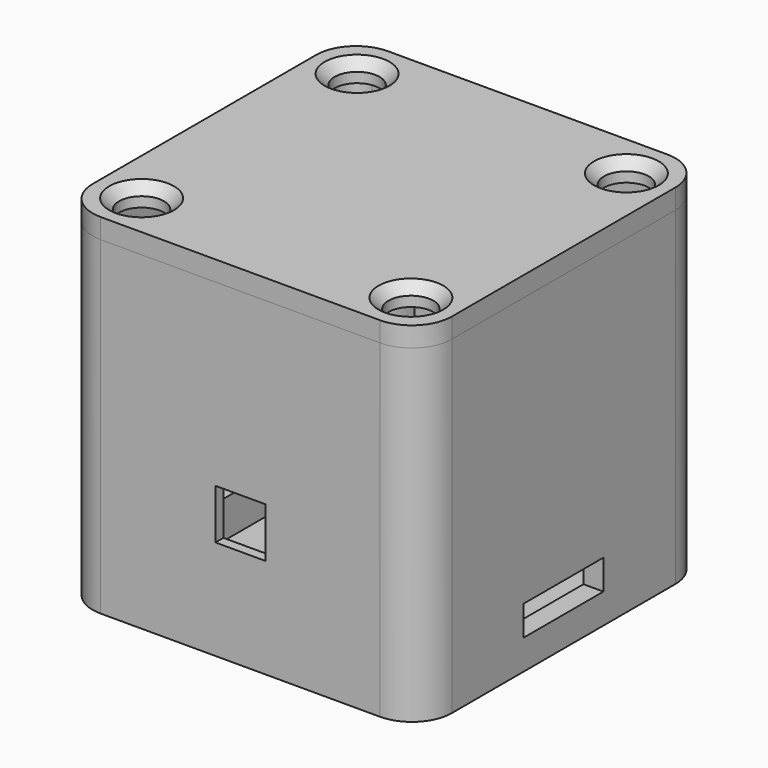
from build123d import *

# Parameters (mm, degrees)
PAD_DEPTH                     = 33
POCKET_DEPTH                  = 31.001
SKETCH002_R                   = 1.25
PAD001_DEPTH                  = 29
SKETCH002_MIRRORED_2_R        = 1.25
PAD001_MIRRORED_2_DEPTH       = 29
SKETCH007_R                   = 3.75
POCKET003_DEPTH               = 5
SKETCH008_W                   = 19.150568
SKETCH008_H                   = 32
PAD004_DEPTH                  = 10
POCKET005_DEPTH               = 18
POCKET006_DEPTH               = 31.001
SKETCH011_W                   = 8.5
SKETCH011_H                   = 8.5
POCKET007_DEPTH               = 17
SKETCH012_W                   = 5
SKETCH012_H                   = 5
POCKET008_DEPTH               = 20
SKETCH016_W                   = 10
SKETCH016_H                   = 3
POCKET009_DEPTH               = 18.001
PAD002_DEPTH                  = 2
PAD003_DEPTH                  = 1.7
SKETCH005_R                   = 2.25
POCKET001_DEPTH               = 133.092919
SKETCH005_MIRRORED002_2_R     = 2.25
POCKET001_MIRRORED002_2_DEPTH = 133.092919
CHAMFER_SIZE                  = 1
SKETCH006_W                   = 56
SKETCH006_H                   = 44
POCKET002_DEPTH               = 3


with BuildPart() as box:
    # Sketch → Pad (new body)
    with BuildSketch(Plane.XY.offset(-2)):
        with BuildLine():
            ThreePointArc((-14, 18), (-16.828427, 16.828427), (-18, 14))
            Line((-18, -14), (-18, 14))
            ThreePointArc((-18, -14), (-16.828427, -16.828427), (-14, -18))
            Line((14, -18), (-14, -18))
            ThreePointArc((14, -18), (16.828427, -16.828427), (18, -14))
            Line((18, 14), (18, -14))
            ThreePointArc((18, 14), (16.828427, 16.828427), (14, 18))
            Line((-14, 18), (14, 18))
        make_face()
    extrude(amount=PAD_DEPTH)

    # Sketch001 → Pocket (cut, through all)
    with BuildSketch(Plane.XY):
        with BuildLine():
            ThreePointArc((-14, 16), (-15.414214, 15.414214), (-16, 14))
            Line((-16, -14), (-16, 14))
            ThreePointArc((-16, -14), (-15.414214, -15.414214), (-14, -16))
            Line((14, -16), (-14, -16))
            ThreePointArc((14, -16), (15.414214, -15.414214), (16, -14))
            Line((16, 14), (16, -14))
            ThreePointArc((16, 14), (15.414214, 15.414214), (14, 16))
            Line((-14, 16), (14, 16))
        make_face()
    extrude(amount=POCKET_DEPTH, mode=Mode.SUBTRACT)

    # Sketch002 → Pad001 (join)
    with BuildSketch(Plane.XY):
        with BuildLine():
            Line((-16, 16), (-9.75, 16))
            ThreePointArc((-16, 9.75), (-11.580583, 11.580583), (-9.75, 16))
            Line((-16, 16), (-16, 9.75))
        make_face()
        with Locations((-13.5, 13.5)):
            Circle(SKETCH002_R, mode=Mode.SUBTRACT)
    pad001 = extrude(amount=PAD001_DEPTH)

    # Sketch002 Mirrored 2 → Pad001 Mirrored 2 (add)
    with BuildSketch(Plane(origin=(0, 0, 0), x_dir=(-1, 0, 0), z_dir=(0, 0, -1))):
        with BuildLine():
            Line((-16, 16), (-9.75, 16))
            ThreePointArc((-16, 9.75), (-11.580583, 11.580583), (-9.75, 16))
            Line((-16, 16), (-16, 9.75))
        make_face()
        with Locations((-13.5, 13.5)):
            Circle(SKETCH002_MIRRORED_2_R, mode=Mode.SUBTRACT)
    pad001_mirrored_2 = extrude(amount=-PAD001_MIRRORED_2_DEPTH)

    # Mirrored001: Pad001, Pad001 Mirrored 2 across Sketch002 H_Axis
    add(pad001.mirror(Plane.ZX))
    add(pad001_mirrored_2.mirror(Plane.ZX))

    # Sketch007 → Pocket003 (cut)
    with BuildSketch(Plane.XY):
        with Locations((0.161875, 10.427869)):
            Circle(SKETCH007_R)
    extrude(amount=-POCKET003_DEPTH, mode=Mode.SUBTRACT)

    # Sketch008 → Pad004 (join)
    with BuildSketch(Plane.XY):
        Rectangle(SKETCH008_W, SKETCH008_H)
    extrude(amount=PAD004_DEPTH)

    # Sketch010 → Pocket005 (cut)
    with BuildSketch(Plane.XZ):
        with BuildLine():
            Line((5.847694, 11.413162), (5.847694, 6.877593))
            ThreePointArc((5.609611, 6.639509), (5.777961, 6.709242), (5.847694, 6.877593))
            Line((5.609611, 6.639509), (-5.454936, 6.639509))
            ThreePointArc((-5.693019, 6.877593), (-5.623286, 6.709242), (-5.454936, 6.639509))
            Line((-5.693019, 6.877593), (-5.693019, 11.413162))
            ThreePointArc((-5.454936, 11.651246), (-5.623286, 11.581513), (-5.693019, 11.413162))
            Line((-5.454936, 11.651246), (5.609611, 11.651246))
            ThreePointArc((5.847694, 11.413162), (5.777961, 11.581513), (5.609611, 11.651246))
        make_face()
    extrude(amount=-POCKET005_DEPTH, mode=Mode.SUBTRACT)

    # Sketch009 → Pocket006 (cut, through all)
    with BuildSketch(Plane.XY):
        Polygon((-8.944506, 15.948259), (9.159313, 15.948259), (9.159313, -3.159262), (11.357193, -3.159262), (11.357193, -7.051741), (-11.073609, -7.051741), (-11.073609, -3.04504), (-8.944506, -3.04504), align=None)
    extrude(amount=POCKET006_DEPTH, mode=Mode.SUBTRACT)

    # Sketch011 → Pocket007 (cut)
    with BuildSketch(Plane.XZ):
        with Locations((0, 10.528574)):
            Rectangle(SKETCH011_W, SKETCH011_H)
    extrude(amount=POCKET007_DEPTH, mode=Mode.SUBTRACT)

    # Sketch012 → Pocket008 (cut)
    with BuildSketch(Plane.XZ):
        with Locations((0, 10.5204)):
            Rectangle(SKETCH012_W, SKETCH012_H)
    extrude(amount=POCKET008_DEPTH, mode=Mode.SUBTRACT)

    # Sketch016 → Pocket009 (cut, through all)
    with BuildSketch(Plane.YZ):
        with Locations((0, 2.5)):
            Rectangle(SKETCH016_W, SKETCH016_H)
    extrude(amount=POCKET009_DEPTH, mode=Mode.SUBTRACT)


with BuildPart() as box_lid:
    # Sketch003 → Pad002 (new body)
    with BuildSketch(Plane.XY):
        with BuildLine():
            ThreePointArc((-14, 18), (-16.828427, 16.828427), (-18, 14))
            Line((-18, -14), (-18, 14))
            ThreePointArc((-18, -14), (-16.828427, -16.828427), (-14, -18))
            Line((14, -18), (-14, -18))
            ThreePointArc((14, -18), (16.828427, -16.828427), (18, -14))
            Line((18, 14), (18, -14))
            ThreePointArc((18, 14), (16.828427, 16.828427), (14, 18))
            Line((-14, 18), (14, 18))
        make_face()
    extrude(amount=PAD002_DEPTH)

    # Sketch004 → Pad003 (join)
    with BuildSketch(Plane.XY):
        with BuildLine():
            ThreePointArc((-14, 16), (-15.414214, 15.414214), (-16, 14))
            Line((-16, -14), (-16, 14))
            ThreePointArc((-16, -14), (-15.414214, -15.414214), (-14, -16))
            Line((14, -16), (-14, -16))
            ThreePointArc((14, -16), (15.414214, -15.414214), (16, -14))
            Line((16, 14), (16, -14))
            ThreePointArc((16, 14), (15.414214, 15.414214), (14, 16))
            Line((-14, 16), (14, 16))
        make_face()
    extrude(amount=-PAD003_DEPTH)

    # Sketch005 → Pocket001 (cut, through all)
    with BuildSketch(Plane.XY.offset(-29)):
        with Locations((-13.5, 13.5)):
            Circle(SKETCH005_R)
    pocket001 = extrude(amount=POCKET001_DEPTH, mode=Mode.SUBTRACT)

    # Sketch005 Mirrored002 2 → Pocket001 Mirrored002 2 (cut, through all)
    with BuildSketch(Plane(origin=(0, 0, -29), x_dir=(-1, 0, 0), z_dir=(0, 0, -1))):
        with Locations((-13.5, 13.5)):
            Circle(SKETCH005_MIRRORED002_2_R)
    pocket001_mirrored002_2 = extrude(amount=-POCKET001_MIRRORED002_2_DEPTH, mode=Mode.SUBTRACT)

    # Mirrored003: Pocket001, Pocket001 Mirrored002 2 across Sketch005 H_Axis
    add(pocket001.mirror(Plane(origin=(0, 0, -29), x_dir=(0, 0, 1), z_dir=(0, 1, 0))), mode=Mode.SUBTRACT)
    add(pocket001_mirrored002_2.mirror(Plane(origin=(0, 0, -29), x_dir=(0, 0, 1), z_dir=(0, 1, 0))), mode=Mode.SUBTRACT)

    # Chamfer
    chamfer_edges = [box_lid.edges().sort_by_distance(p)[0] for p in [
        (-15.75, 13.5, 2),
        (15.75, 13.5, 2),
        (15.75, -13.5, 2),
        (-15.75, -13.5, 2),
    ]]
    chamfer(chamfer_edges, length=CHAMFER_SIZE)

    # Sketch006 → Pocket002 (cut)
    with BuildSketch(Plane.XY.offset(-3)):
        Rectangle(SKETCH006_W, SKETCH006_H)
    extrude(amount=POCKET002_DEPTH, mode=Mode.SUBTRACT)


with BuildPart() as box_lid_1:
    # Body001 placement: moved
    add(box_lid.part.moved(Location((0, 0, 31))))


solid = Compound([box.part, box_lid_1.part])
